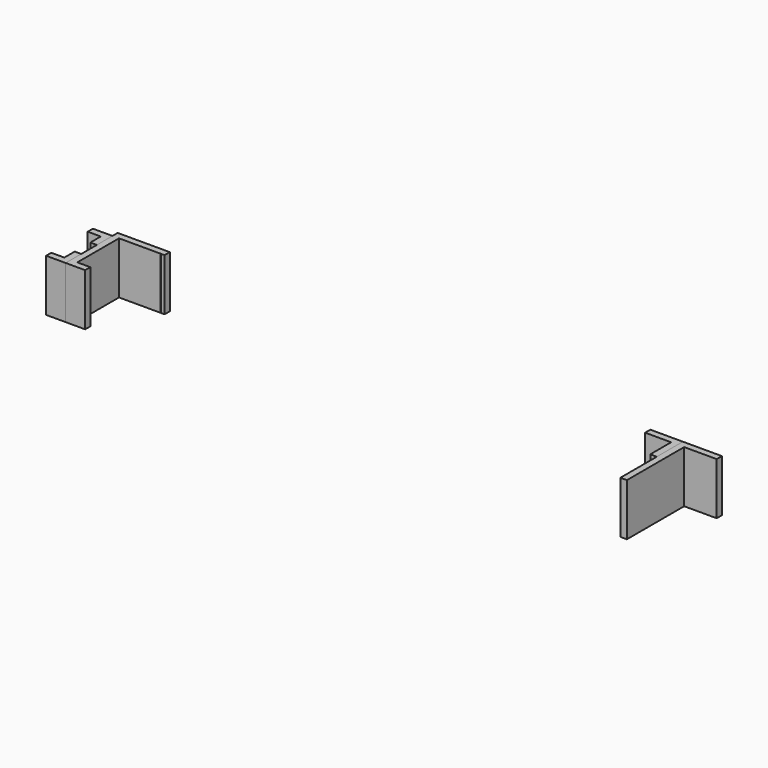
from build123d import *

# Parameters (mm, degrees)
F1_DEPTH = 25.4
F2_DEPTH = 25.4
F3_DEPTH = 25.4
F4_DEPTH = 25.4


with BuildPart() as f1:
    # F0 (on Top) → F1 (new body)
    with BuildSketch(Plane.XY):
        Polygon((-10.16, 21.59), (2.54, 21.59), (10.178426, 21.59), (10.206263, 21.715837), (10.272177, 21.59), (12.065, 21.59), (12.065, 24.765), (-13.335, 24.765), (-13.335, 21.59), (-13.335, 18.415), (-13.335, 12.065), (-13.335, 2.54), (-13.335, -3.81), (-13.335, -6.985), (-3.81, -6.985), (-3.81, -3.81), (-10.16, -3.81), align=None)
    extrude(amount=F1_DEPTH)


with BuildPart() as f2:
    # F0 (on Top) → F2 (new body)
    with BuildSketch(Plane.XY):
        Polygon((-13.335, 18.415), (-13.335, 21.59), (-22.86, 21.59), (-22.86, 18.415), (-16.51, 18.415), (-16.51, 12.065), (-13.335, 12.065), align=None)
        Polygon((-22.86, -6.985), (-13.335, -6.985), (-13.335, -3.81), (-13.335, 2.54), (-16.51, 2.54), (-16.51, -3.81), (-22.86, -3.81), align=None)
    extrude(amount=F2_DEPTH)


with BuildPart() as f3:
    # F0 (on Top) → F3 (new body)
    with BuildSketch(Plane.XY):
        Polygon((281.338991, 24.765), (262.288991, 24.765), (262.288991, 21.59), (262.288991, 8.89), (262.288991, -13.335), (265.463991, -13.335), (265.463991, 21.59), (281.338991, 21.59), align=None)
    extrude(amount=F3_DEPTH)


with BuildPart() as f4:
    # F0 (on Top) → F4 (new body)
    with BuildSketch(Plane.XY):
        Polygon((246.413991, 21.59), (252.398074, 21.59), (259.113991, 21.59), (259.113991, 8.89), (262.288991, 8.89), (262.288991, 21.59), (262.288991, 24.765), (246.413991, 24.765), align=None)
    extrude(amount=F4_DEPTH)


solid = Compound([f1.part, f2.part, f3.part, f4.part])
